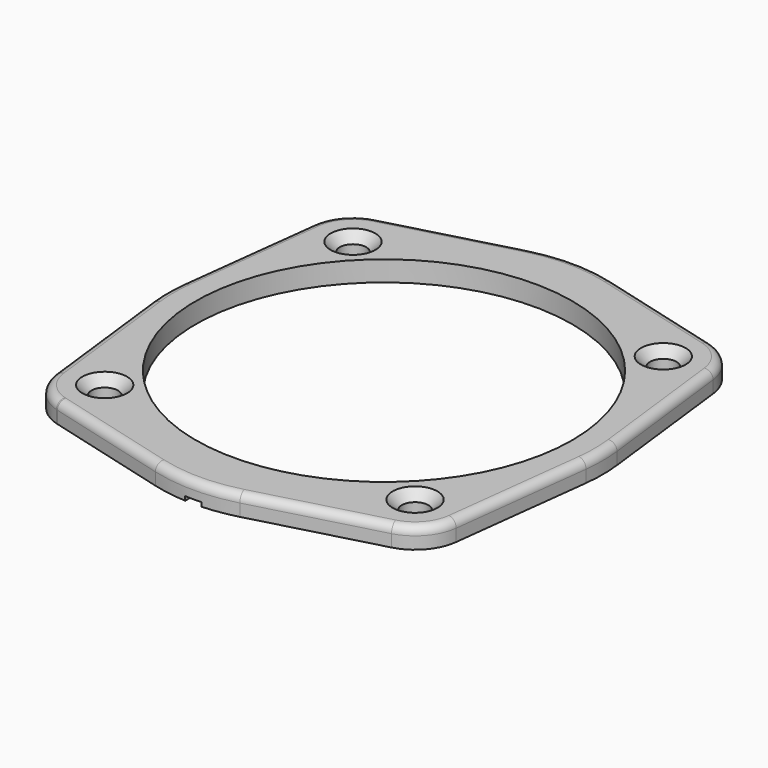
from build123d import *

# Parameters (mm, degrees)
F0_R          = 3.25
F1_DEPTH      = 5
F2_R          = 2
F3_SIZE       = 2.25
F5_DEPTH      = 2
F5_DEPTH_BACK = 2


with BuildPart() as f1:
    # F0 (on Top) → F1 (new body)
    with BuildSketch(Plane.XY):
        with BuildLine():
            ThreePointArc((-37.6418413316, -26.8729284069), (-14.1089924944, 44.0454178184), (46.25, 0))
            ThreePointArc((46.25, 0), (21.1682493511, -41.121377888), (-26.8729284069, -37.6418413316))
            ThreePointArc((-26.8729284069, -37.6418413316), (-31.0817991261, -46.8950788332), (-41.0316193316, -48.9778834013))
            Line((-41.0316193316, -48.9778834013), (-10.3771158244, -57.212447804))
            ThreePointArc((-10.3771158244, -57.212447804), (0, -58.5819486205), (10.3771158244, -57.212447804))
            Line((10.3771158244, -57.212447804), (41.0316193316, -48.9778834013))
            ThreePointArc((41.0316193316, -48.9778834013), (46.6175743255, -45.4775418864), (49.2834994538, -39.44860109))
            Line((49.2834994538, -39.44860109), (53.4322534987, -4.7486065209))
            ThreePointArc((53.4322534987, -4.7486065209), (53.7151194618, 0), (53.4322534987, 4.7486065209))
            Line((53.4322534987, 4.7486065209), (49.2834994538, 39.44860109))
            ThreePointArc((49.2834994538, 39.44860109), (46.6175743255, 45.4775418864), (41.0316193316, 48.9778834013))
            Line((41.0316193316, 48.9778834013), (10.3771158244, 57.212447804))
            ThreePointArc((10.3771158244, 57.212447804), (0, 58.5819486205), (-10.3771158244, 57.212447804))
            Line((-10.3771158244, 57.212447804), (-41.0316193316, 48.9778834013))
            ThreePointArc((-41.0316193316, 48.9778834013), (-46.6175743255, 45.4775418864), (-49.2834994538, 39.44860109))
            Line((-49.2834994538, 39.44860109), (-53.4322534987, 4.7486065209))
            ThreePointArc((-53.4322534987, 4.7486065209), (-53.7151194618, 0), (-53.4322534987, -4.7486065209))
            Line((-53.4322534987, -4.7486065209), (-49.2834994538, -39.44860109))
            ThreePointArc((-49.2834994538, -39.44860109), (-46.3686757307, -30.4705928986), (-37.6418413316, -26.8729284069))
        make_face()
        with Locations((38.113055506, -38.113055506)):
            Circle(F0_R, mode=Mode.SUBTRACT)
        with Locations((-38.113055506, 38.113055506)):
            Circle(F0_R, mode=Mode.SUBTRACT)
        with Locations((38.113055506, 38.113055506)):
            Circle(F0_R, mode=Mode.SUBTRACT)
        with BuildLine():
            ThreePointArc((-26.8729284069, -37.6418413316), (-32.7036886299, -32.7036886299), (-37.6418413316, -26.8729284069))
            ThreePointArc((-37.6418413316, -26.8729284069), (-46.3686757307, -30.4705928986), (-49.2834994538, -39.44860109))
            ThreePointArc((-49.2834994538, -39.44860109), (-46.7245900781, -45.3521143062), (-41.3487870684, -48.8876803837))
            ThreePointArc((-41.3487870684, -48.8876803837), (-41.1905337069, -48.9339440057), (-41.0316193316, -48.9778834013))
            ThreePointArc((-41.0316193316, -48.9778834013), (-31.0817991261, -46.8950788332), (-26.8729284069, -37.6418413316))
        make_face()
        with Locations((-38.113055506, -38.113055506)):
            Circle(F0_R, mode=Mode.SUBTRACT)
    extrude(amount=F1_DEPTH)

    # F2
    f2_edges = [f1.edges().sort_by_distance(p)[0] for p in [
        (-25.704368, 53.095166, 5),
    ]]
    fillet(f2_edges, radius=F2_R)

    # F3
    f3_edges = [f1.edges().sort_by_distance(p)[0] for p in [
        (-41.363056, 38.113056, 5),
        (34.863056, 38.113056, 5),
        (34.863056, -38.113056, 5),
        (-41.363056, -38.113056, 5),
    ]]
    chamfer(f3_edges, length=F3_SIZE)

    # F4 (on Right) → F5 (cut, two sides)
    with BuildSketch(Plane.YZ) as f5_sk:
        Polygon((-58.5819486205, 0), (-57.212447804, 0), (-55.5819486205, 0), (-55.5819486205, 1), (-58.5819486205, 1), align=None)
    extrude(amount=-F5_DEPTH, mode=Mode.SUBTRACT)
    extrude(f5_sk.sketch, amount=F5_DEPTH_BACK, mode=Mode.SUBTRACT)


solid = f1.part
